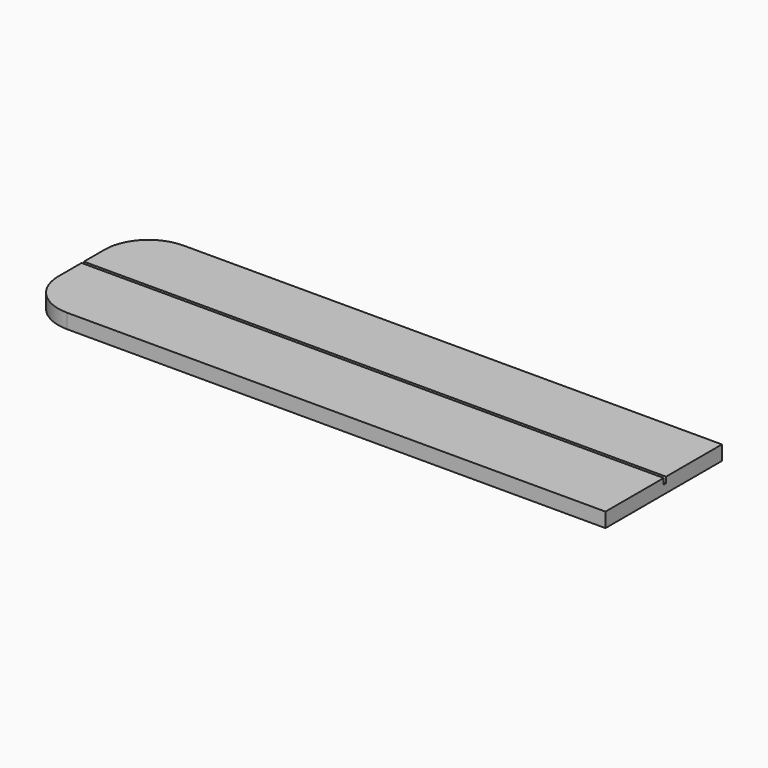
from build123d import *

# Parameters (mm, degrees)
F1_DEPTH = 2.5
F2_W     = 100
F2_H     = 0.5
F3_DEPTH = 1


with BuildPart() as f1:
    # F0 (on Top) → F1 (new body)
    with BuildSketch(Plane.XY):
        with BuildLine():
            ThreePointArc((-53.75, 7.5), (-51.553301, 2.196699), (-46.25, 0))
            Line((-46.25, 0), (46.25, 0))
            Line((46.25, 0), (46.25, 25))
            Line((46.25, 25), (-46.25, 25))
            ThreePointArc((-46.25, 25), (-51.553301, 22.803301), (-53.75, 17.5))
            Line((-53.75, 17.5), (-53.75, 7.5))
        make_face()
    extrude(amount=F1_DEPTH)

    # F2 (on face) → F3 (cut)
    with BuildSketch(Plane.XY.offset(2.5)):
        with Locations((-3.75, 12.75)):
            Rectangle(F2_W, F2_H)
    extrude(amount=-F3_DEPTH, mode=Mode.SUBTRACT)


solid = f1.part
